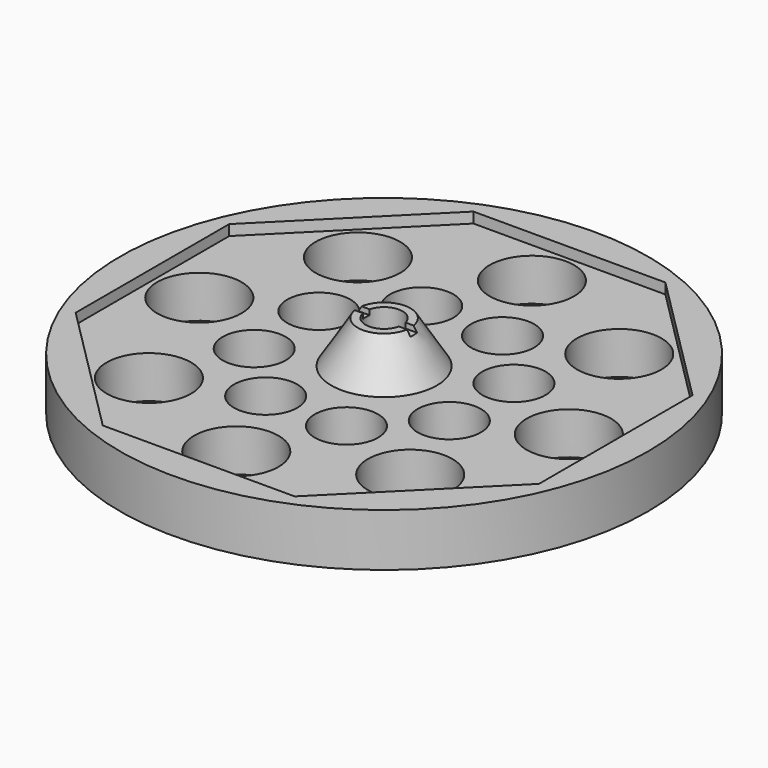
from build123d import *

# Parameters (mm, degrees)
SKETCH_R        = 50
SKETCH_R_2      = 8
SKETCH_R_3      = 6
PAD_DEPTH       = 10
POCKET_DEPTH    = 2
CYLINDER_R      = 3.5
CYLINDER_DEPTH  = 12
SKETCH002_R     = 1.5
POCKET001_DEPTH = 10
BOX_W           = 15
BOX_H           = 1.6
BOX_DEPTH       = 4


with BuildPart() as part:
    # Sketch → Pad (new body)
    with BuildSketch(Plane.XY):
        Circle(SKETCH_R)
        with Locations((0, 35)):
            Circle(SKETCH_R_2, mode=Mode.SUBTRACT)
        with Locations((24.748737, 24.748737)):
            Circle(SKETCH_R_2, mode=Mode.SUBTRACT)
        with Locations((35, 0)):
            Circle(SKETCH_R_2, mode=Mode.SUBTRACT)
        with Locations((24.748737, -24.748737)):
            Circle(SKETCH_R_2, mode=Mode.SUBTRACT)
        with Locations((0, -35)):
            Circle(SKETCH_R_2, mode=Mode.SUBTRACT)
        with Locations((-24.748737, -24.748737)):
            Circle(SKETCH_R_2, mode=Mode.SUBTRACT)
        with Locations((-35, 0)):
            Circle(SKETCH_R_2, mode=Mode.SUBTRACT)
        with Locations((-24.748737, 24.748737)):
            Circle(SKETCH_R_2, mode=Mode.SUBTRACT)
        with Locations((-7.653669, -18.477591)):
            Circle(SKETCH_R_3, mode=Mode.SUBTRACT)
        with Locations((7.653669, -18.477591)):
            Circle(SKETCH_R_3, mode=Mode.SUBTRACT)
        with Locations((18.477591, -7.653669)):
            Circle(SKETCH_R_3, mode=Mode.SUBTRACT)
        with Locations((18.477591, 7.653669)):
            Circle(SKETCH_R_3, mode=Mode.SUBTRACT)
        with Locations((7.653669, 18.477591)):
            Circle(SKETCH_R_3, mode=Mode.SUBTRACT)
        with Locations((-7.653669, 18.477591)):
            Circle(SKETCH_R_3, mode=Mode.SUBTRACT)
        with Locations((-18.477591, 7.653669)):
            Circle(SKETCH_R_3, mode=Mode.SUBTRACT)
        with Locations((-18.477591, -7.653669)):
            Circle(SKETCH_R_3, mode=Mode.SUBTRACT)
    extrude(amount=PAD_DEPTH)

    # Sketch001 (on Face19 of Pad) → Pocket (cut)
    with BuildSketch(Plane.XY.offset(10)):
        Polygon((43.884278, 18.177463), (18.177463, 43.884278), (-18.177463, 43.884278), (-43.884278, 18.177463), (-43.884278, -18.177463), (-18.177463, -43.884278), (18.177463, -43.884278), (43.884278, -18.177463), align=None)
    extrude(amount=-POCKET_DEPTH, mode=Mode.SUBTRACT)

    # Cone → Cone (revolve)
    with BuildSketch(Plane(origin=(0, 0, 8), x_dir=(1, 0, 0), z_dir=(0, -1, 0))):
        Polygon((0, 0), (10, 0), (5, 8), (0, 8), align=None)
    revolve(axis=Axis((0, 0, 8), (0, 0, 1)))

    # Cylinder → Cylinder (cut)
    with BuildSketch(Plane(origin=(0, 0, 16), x_dir=(-1, 0, 0), z_dir=(0, 0, -1))):
        Circle(CYLINDER_R)
    extrude(amount=CYLINDER_DEPTH, mode=Mode.SUBTRACT)

    # Sketch002 (on Face32 of Cylinder) → Pocket001 (cut)
    with BuildSketch(Plane(origin=(0, 0, 4), x_dir=(-1, 0, 0), z_dir=(0, 0, 1))):
        Circle(SKETCH002_R)
    extrude(amount=-POCKET001_DEPTH, mode=Mode.SUBTRACT)

    # Box → Box (cut)
    with BuildSketch(Plane(origin=(-7, -0.75, 15), x_dir=(1, 0, 0), z_dir=(0, 0, 1))):
        with Locations((7.5, 0.8)):
            Rectangle(BOX_W, BOX_H)
    extrude(amount=BOX_DEPTH, mode=Mode.SUBTRACT)


solid = part.part
